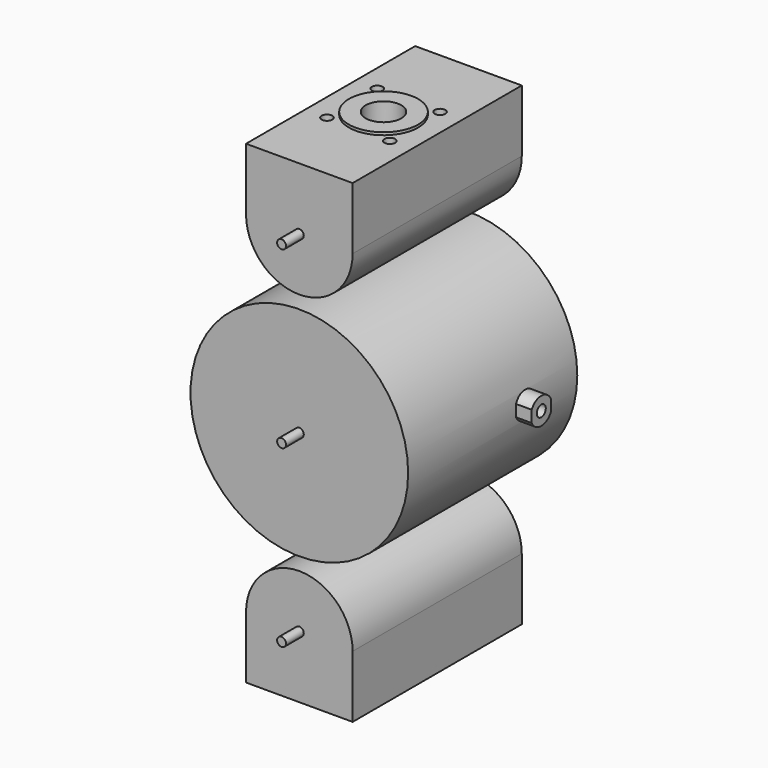
from build123d import *

# Parameters (mm, degrees)
F0_R          = 122.5
F2_DEPTH      = 238
F3_R          = 5
F4_DEPTH      = 25
F4_DEPTH_BACK = 263
F5_DEPTH      = 25
F5_DEPTH_BACK = 263
F6_DEPTH      = 25
F6_DEPTH_BACK = 260
F7_R          = 20
F7_R_2        = 6
F8_DEPTH      = 25
F7_R_3        = 39
F9_DEPTH      = 3
F10_R         = 20
F10_R_2       = 6
F11_DEPTH     = 25
F10_R_3       = 39
F12_DEPTH     = 3
F13_R         = 6.35
F14_DEPTH     = 140


with BuildPart() as f2:
    # F1 (on face) + F0 (on Front) → F2 (new body)
    with BuildSketch(Plane.XZ):
        with BuildLine():
            Line((-60, 267), (-60, 197))
            ThreePointArc((-60, 197), (0, 137), (60, 197))
            Line((60, 197), (60, 267))
            Line((60, 267), (-60, 267))
        make_face()
        with BuildLine():
            ThreePointArc((60, -197), (0, -137), (-60, -197))
            Line((-60, -197), (-60, -267))
            Line((-60, -267), (60, -267))
            Line((60, -267), (60, -197))
        make_face()
    with BuildSketch(Plane.XZ):
        Circle(F0_R)
    extrude(amount=F2_DEPTH)

    # F3 (on face) → F4 (join, two sides)
    with BuildSketch(Plane.XZ.offset(238)) as f4_sk:
        with Locations((0, 197)):
            Circle(F3_R)
    extrude(amount=F4_DEPTH)
    extrude(f4_sk.sketch, amount=-F4_DEPTH_BACK)

    # F3 (on face) → F5 (join, two sides)
    with BuildSketch(Plane.XZ.offset(238)) as f5_sk:
        Circle(F3_R)
    extrude(amount=F5_DEPTH)
    extrude(f5_sk.sketch, amount=-F5_DEPTH_BACK)

    # F3 (on face) → F6 (join, two sides)
    with BuildSketch(Plane.XZ.offset(238)) as f6_sk:
        with Locations((0, -197)):
            Circle(F3_R)
    extrude(amount=F6_DEPTH)
    extrude(f6_sk.sketch, amount=-F6_DEPTH_BACK)

    # F7 (on face) → F8 (cut)
    with BuildSketch(Plane.XY.offset(267)):
        with Locations((0, -119.524725)):
            Circle(F7_R)
        with Locations((-35.355, -154.880403)):
            Circle(F7_R_2)
        with Locations((35.355678, -154.879725)):
            Circle(F7_R_2)
        with Locations((35.355, -84.169047)):
            Circle(F7_R_2)
        with Locations((-35.355678, -84.169725)):
            Circle(F7_R_2)
    extrude(amount=-F8_DEPTH, mode=Mode.SUBTRACT)

    # F7 (on face) → F9 (join)
    with BuildSketch(Plane.XY.offset(267)):
        with Locations((0, -119.524725)):
            Circle(F7_R_3)
        with Locations((0, -119.524725)):
            Circle(F7_R, mode=Mode.SUBTRACT)
    extrude(amount=F9_DEPTH)

    # F10 (on face) → F11 (cut)
    with BuildSketch(Plane(origin=(0, 0, -267), x_dir=(1, 0, 0), z_dir=(0, 0, -1))):
        with Locations((0, 119.524725)):
            Circle(F10_R)
        with Locations((35.355678, 154.879725)):
            Circle(F10_R_2)
        with Locations((35.355, 84.169047)):
            Circle(F10_R_2)
        with Locations((-35.355, 154.880403)):
            Circle(F10_R_2)
        with Locations((-35.355678, 84.169725)):
            Circle(F10_R_2)
    extrude(amount=-F11_DEPTH, mode=Mode.SUBTRACT)

    # F10 (on face) → F12 (join)
    with BuildSketch(Plane(origin=(0, 0, -267), x_dir=(1, 0, 0), z_dir=(0, 0, -1))):
        with Locations((0, 119.524725)):
            Circle(F10_R_3)
        with Locations((0, 119.524725)):
            Circle(F10_R, mode=Mode.SUBTRACT)
    extrude(amount=F12_DEPTH)

    # F13 (on Right) → F14 (join)
    with BuildSketch(Plane.YZ):
        with BuildLine():
            Line((-85.996222, 6.596875), (-85.996222, -6.596875))
            ThreePointArc((-85.996222, -6.596875), (-72.524725, -15), (-59.053228, -6.596875))
            Line((-59.053228, -6.596875), (-59.053228, 6.596875))
            ThreePointArc((-59.053228, 6.596875), (-72.524725, 15), (-85.996222, 6.596875))
        make_face()
        with Locations((-72.524725, 0)):
            Circle(F13_R, mode=Mode.SUBTRACT)
    extrude(amount=F14_DEPTH)


solid = f2.part
